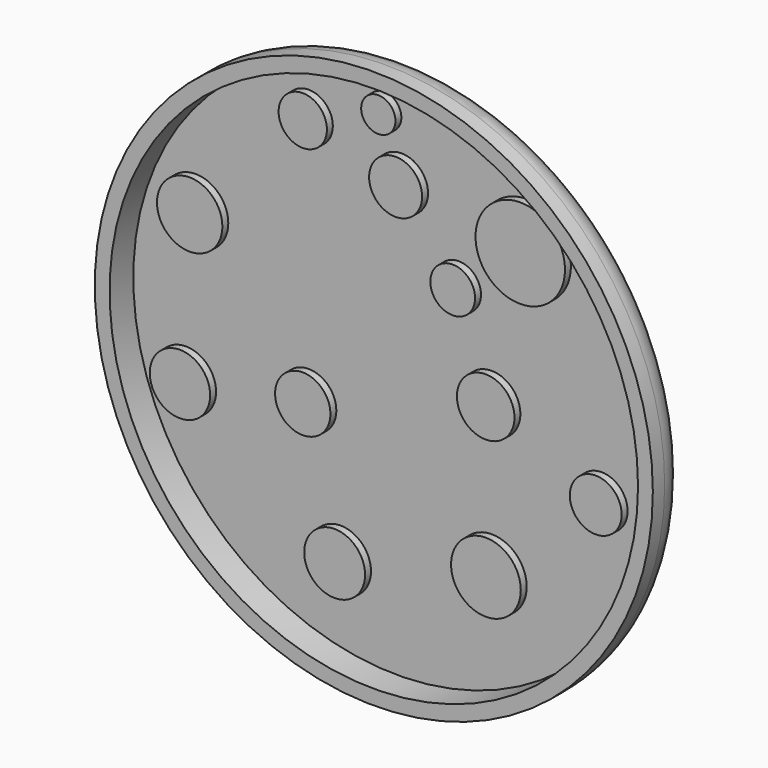
from build123d import *

# Parameters (mm, degrees)
F0_R     = 47.852278
F1_DEPTH = 7.62
F2_T     = -2.54
F4_R     = 5.608286
F4_R_2   = 5.177589
F4_R_3   = 5.217798
F4_R_4   = 5.97792
F4_R_5   = 4.935933
F4_R_6   = 4.445249
F4_R_7   = 4.745595
F4_R_8   = 4.142937
F4_R_9   = 2.93605
F4_R_10  = 4.544521
F4_R_11  = 7.671855
F4_R_12  = 3.835925
F5_DEPTH = 1.27
F6_R     = 5.08


with BuildPart() as f1:
    # F0 (on Front) → F1 (new body)
    with BuildSketch(Plane.XZ):
        with Locations((-75.713672, 36.766488)):
            Circle(F0_R)
    extrude(amount=F1_DEPTH)

    # F2
    f2_openings = [f1.faces().sort_by_distance(p)[0] for p in [
        (-75.713672, -7.62, 36.766488),
    ]]
    offset(amount=F2_T, openings=f2_openings)

    # F4 (on face) → F5 (join)
    with BuildSketch(Plane.XZ.offset(2.54)):
        with Locations((-110.339284, 50.251123)):
            Circle(F4_R)
        with Locations((-112.003483, 24.109663)):
            Circle(F4_R_2)
        with Locations((-85.477225, 5.647067)):
            Circle(F4_R_3)
        with Locations((-59.536304, 12.006708)):
            Circle(F4_R_4)
        with Locations((-59.57577, 37.714168)):
            Circle(F4_R_5)
        with Locations((-40.702716, 29.041462)):
            Circle(F4_R_6)
        with Locations((-90.947576, 27.981274)):
            Circle(F4_R_7)
        with Locations((-90.947576, 70.743375)):
            Circle(F4_R_8)
        with Locations((-77.989683, 75.85264)):
            Circle(F4_R_9)
        with Locations((-75.023986, 65.913238)):
            Circle(F4_R_10)
        with Locations((-53.647552, 62.852636)):
            Circle(F4_R_11)
        with Locations((-65.233916, 53.533848)):
            Circle(F4_R_12)
    extrude(amount=F5_DEPTH)

    # F6
    f6_edges = [f1.edges().sort_by_distance(p)[0] for p in [
        (-123.565949, 0, 36.766488),
    ]]
    fillet(f6_edges, radius=F6_R)


solid = f1.part
